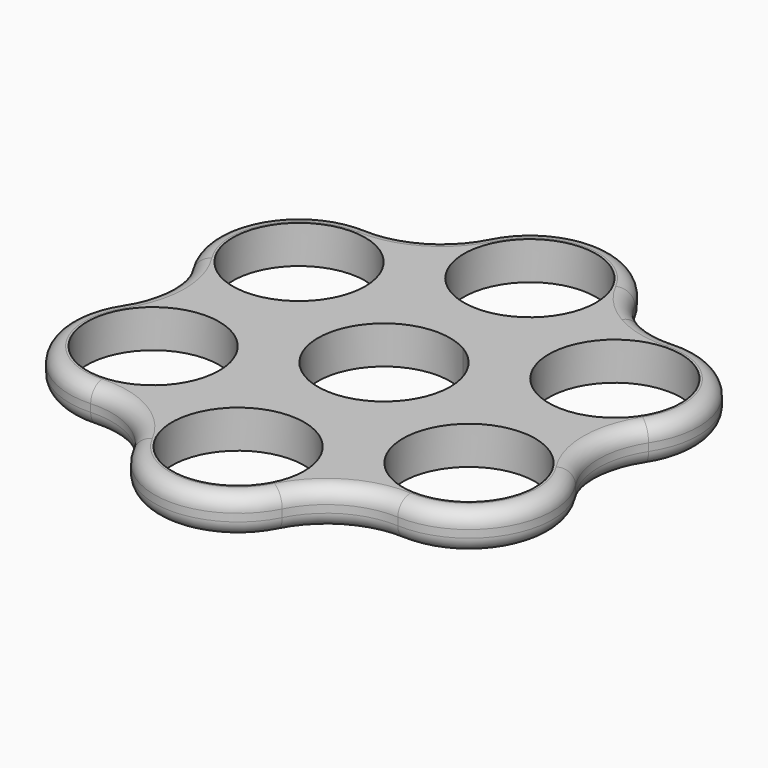
from build123d import *

# Parameters (mm, degrees)
F0_R     = 11.049
F1_DEPTH = 6.35
F2_R     = 2.54
F3_R     = 2.54


with BuildPart() as f1:
    # F0 (on Top) → F1 (new body)
    with BuildSketch(Plane.XY):
        with BuildLine():
            ThreePointArc((25.664801, 29.190827), (21.660672, 29.558642), (17.925926, 31.048615))
            ThreePointArc((17.925926, 31.048615), (14.768199, 33.538013), (12.447597, 36.821784))
            ThreePointArc((12.447597, 36.821784), (0, 44.45), (-12.447597, 36.821784))
            ThreePointArc((-12.447597, 36.821784), (-17.925926, 31.048615), (-25.664801, 29.190827))
            ThreePointArc((-25.664801, 29.190827), (-38.494829, 22.225), (-38.112399, 7.630956))
            ThreePointArc((-38.112399, 7.630956), (-35.851852, 0), (-38.112399, -7.630956))
            ThreePointArc((-38.112399, -7.630956), (-38.494829, -22.225), (-25.664801, -29.190827))
            ThreePointArc((-25.664801, -29.190827), (-17.925926, -31.048615), (-12.447597, -36.821784))
            ThreePointArc((-12.447597, -36.821784), (0, -44.45), (12.447597, -36.821784))
            ThreePointArc((12.447597, -36.821784), (17.925926, -31.048615), (25.664801, -29.190827))
            ThreePointArc((25.664801, -29.190827), (38.494829, -22.225), (38.112399, -7.630956))
            ThreePointArc((38.112399, -7.630956), (35.851852, 0), (38.112399, 7.630956))
            ThreePointArc((38.112399, 7.630956), (38.494829, 22.225), (25.664801, 29.190827))
        make_face()
        with Locations((-26.396454, -15.24)):
            Circle(F0_R, mode=Mode.SUBTRACT)
        with Locations((0, -30.48)):
            Circle(F0_R, mode=Mode.SUBTRACT)
        with Locations((26.396454, -15.24)):
            Circle(F0_R, mode=Mode.SUBTRACT)
        with Locations((-26.396454, 15.24)):
            Circle(F0_R, mode=Mode.SUBTRACT)
        with BuildLine():
            ThreePointArc((5.5245, 9.568715), (9.568715, 5.5245), (11.049, 0))
            ThreePointArc((11.049, 0), (-9.568715, -5.5245), (5.5245, 9.568715))
        make_face(mode=Mode.SUBTRACT)
        with Locations((26.396454, 15.24)):
            Circle(F0_R, mode=Mode.SUBTRACT)
        with Locations((0, 30.48)):
            Circle(F0_R, mode=Mode.SUBTRACT)
    extrude(amount=F1_DEPTH)

    # F2
    f2_edges = [f1.edges().sort_by_distance(p)[0] for p in [
        (0, -44.45, 6.35),
    ]]
    fillet(f2_edges, radius=F2_R)

    # F3
    f3_edges = [f1.edges().sort_by_distance(p)[0] for p in [
        (-17.925926, -31.048615, 0),
    ]]
    fillet(f3_edges, radius=F3_R)


solid = f1.part
